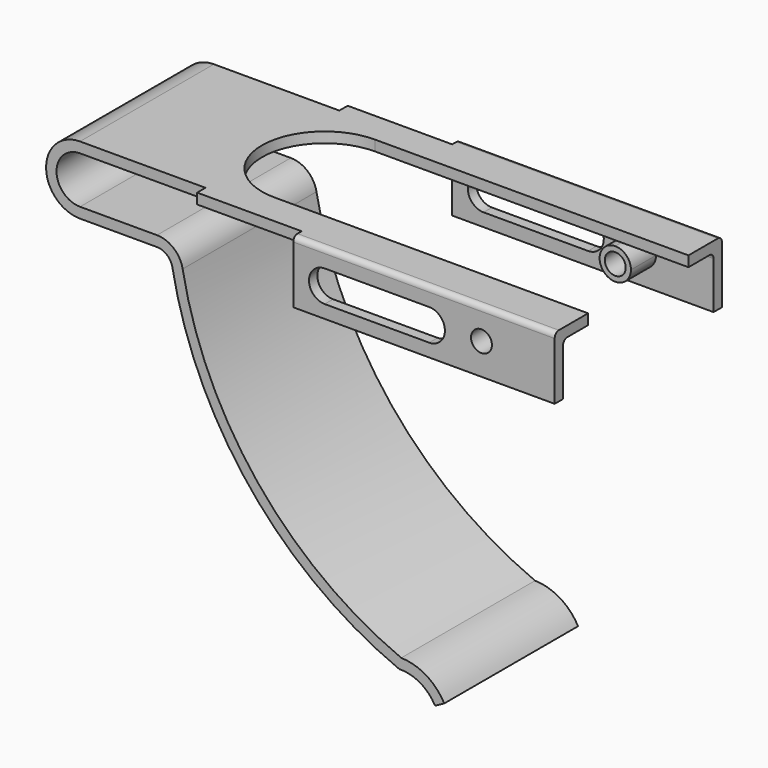
from build123d import *

# Parameters (mm, degrees)
F1_DEPTH  = 16
F2_W      = 70
F2_H      = 2
F3_DEPTH  = 2
F4_W      = 50
F4_H      = 10
F4_H_2    = 2
F5_DEPTH  = 2
F6_R      = 1
F9_DEPTH  = 2
F11_DEPTH = 40.001
F12_R     = 2
F13_DEPTH = 40.001
F12_R_2   = 3
F14_DEPTH = 8
F15_R     = 2
F16_DEPTH = 6


with BuildPart() as f1:
    # F0 (on Front) → F1 (new body)
    with BuildSketch(Plane.XZ):
        with BuildLine():
            ThreePointArc((-78.2553477167, -4.5), (-82.7553477167, 0), (-78.2553477167, 4.5))
            Line((-78.2553477167, 4.5), (15.7446522833, 4.5))
            Line((15.7446522833, 4.5), (15.7446522833, 6.5))
            Line((15.7446522833, 6.5), (-78.2553477167, 6.5))
            ThreePointArc((-78.2553477167, 6.5), (-84.7553477167, 0), (-78.2553477167, -6.5))
            Line((-78.2553477167, -6.5), (-63.5440570211, -6.5))
            ThreePointArc((-63.5440570211, -6.5), (-61.6242210154, -7.1947386892), (-60.5935745764, -8.9571801926))
            ThreePointArc((-60.5935745764, -8.9571801926), (-45.7228537684, -41.2574258057), (-17.207438999, -62.5016091164))
            ThreePointArc((-17.207438999, -62.5016091164), (-13.2164359403, -63.5063644425), (-10.3436688231, -66.4533710204))
            Line((-10.3436688231, -66.4533710204), (-8.58552102, -65.5))
            ThreePointArc((-8.58552102, -65.5), (-12.0235125852, -61.888485404), (-16.8125554919, -60.5))
            ThreePointArc((-16.8125554919, -60.5), (-44.2937887319, -39.8437899922), (-58.6265862799, -8.5953003211))
            ThreePointArc((-58.6265862799, -8.5953003211), (-60.3443303449, -5.6578978153), (-63.5440570211, -4.5))
            Line((-63.5440570211, -4.5), (-78.2553477167, -4.5))
        make_face()
    extrude(amount=F1_DEPTH)

    # F2 (on face) → F3 (join)
    with BuildSketch(Plane.XY.offset(6.5)):
        with Locations((-19.2553477167, -17)):
            Rectangle(F2_W, F2_H)
    extrude(amount=-F3_DEPTH)

    # F4 (on face) → F5 (join)
    with BuildSketch(Plane.XZ.offset(18)):
        with Locations((-9.2553477167, -0.5)):
            Rectangle(F4_W, F4_H)
        with Locations((-9.2553477167, 5.5)):
            Rectangle(F4_W, F4_H_2)
    extrude(amount=F5_DEPTH)

    # F6
    f6_edges = [f1.edges().sort_by_distance(p)[0] for p in [
        (-9.255348, -20, 6.5),
        (-9.255348, -18, 4.5),
    ]]
    fillet(f6_edges, radius=F6_R)

    # F7: F1 across face


with BuildPart() as f1_1:
    add(f1.part)
    add(f1.part.mirror(Plane(origin=(-41.9712348224, 0, -13.8038322502), x_dir=(1, 0, 0), z_dir=(0, 1, 0))))

    # F8 (on face) → F9 (cut)
    with BuildSketch(Plane.XY.offset(6.5)):
        with BuildLine():
            Line((15.7446522833, 12), (-44.2553477167, 12))
            ThreePointArc((-44.2553477167, 12), (-56.2553477167, 0), (-44.2553477167, -12))
            Line((-44.2553477167, -12), (15.7446522833, -12))
            Line((15.7446522833, -12), (15.7446522833, 12))
        make_face()
    extrude(amount=-F9_DEPTH, mode=Mode.SUBTRACT)

    # F10 (on face) → F11 (cut, through all)
    with BuildSketch(Plane.XZ.offset(20)):
        with BuildLine():
            ThreePointArc((-28.2553477167, 3), (-31.2553477167, 0), (-28.2553477167, -3))
            Line((-28.2553477167, -3), (-8.2553477167, -3))
            ThreePointArc((-8.2553477167, -3), (-5.2553477167, 0), (-8.2553477167, 3))
            Line((-8.2553477167, 3), (-28.2553477167, 3))
        make_face()
    extrude(amount=-F11_DEPTH, mode=Mode.SUBTRACT)

    # F12 (on face) → F13 (cut, through all)
    with BuildSketch(Plane.XZ.offset(20)):
        with Locations((1.7446522833, 0.5)):
            Circle(F12_R)
    extrude(amount=-F13_DEPTH, mode=Mode.SUBTRACT)

    # F12 (on face) → F14 (join)
    with BuildSketch(Plane.XZ.offset(20)):
        with Locations((1.7446522833, 0.5)):
            Circle(F12_R_2)
        with Locations((1.7446522833, 0.5)):
            Circle(F12_R, mode=Mode.SUBTRACT)
    extrude(amount=-F14_DEPTH)

    # F15 (on face) → F16 (join)
    with BuildSketch(Plane.XZ.offset(-18)):
        with BuildLine():
            ThreePointArc((1.7446522833, 3.5), (-0.3766680603, -1.6213203436), (4.7446522833, 0.5))
            ThreePointArc((4.7446522833, 0.5), (3.8659726268, 2.6213203436), (1.7446522833, 3.5))
        make_face()
        with Locations((1.7446522833, 0.5)):
            Circle(F15_R, mode=Mode.SUBTRACT)
    extrude(amount=F16_DEPTH)


solid = f1_1.part
